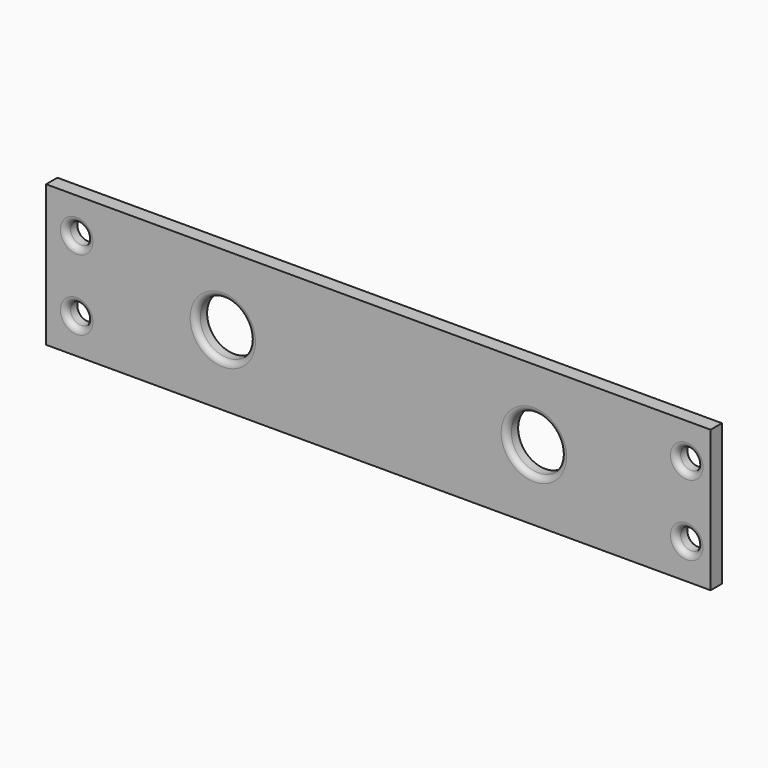
from build123d import *

# Parameters (mm, degrees)
F0_W     = 596.9
F0_H     = 127
F0_R     = 9.525
F0_R_2   = 24.281079
F1_DEPTH = 12.7
F2_R     = 5.08


with BuildPart() as f1:
    # F0 (on Front) → F1 (new body)
    with BuildSketch(Plane.XZ):
        Rectangle(F0_W, F0_H)
        with Locations((-270.981818, -31.75)):
            Circle(F0_R, mode=Mode.SUBTRACT)
        with Locations((277.004451, -31.75)):
            Circle(F0_R, mode=Mode.SUBTRACT)
        with Locations((-139.7, 0)):
            Circle(F0_R_2, mode=Mode.SUBTRACT)
        with Locations((-270.981818, 31.75)):
            Circle(F0_R, mode=Mode.SUBTRACT)
        with Locations((139.7, 0)):
            Circle(F0_R_2, mode=Mode.SUBTRACT)
        with Locations((277.004451, 31.75)):
            Circle(F0_R, mode=Mode.SUBTRACT)
    extrude(amount=F1_DEPTH)

    # F2
    f2_edges = [f1.edges().sort_by_distance(p)[0] for p in [
        (-163.981079, -12.7, 0),
        (-280.506818, -12.7, 31.75),
        (-280.506818, -12.7, -31.75),
        (115.418921, -12.7, 0),
        (267.479451, -12.7, -31.75),
        (267.479451, -12.7, 31.75),
    ]]
    fillet(f2_edges, radius=F2_R)


solid = f1.part
